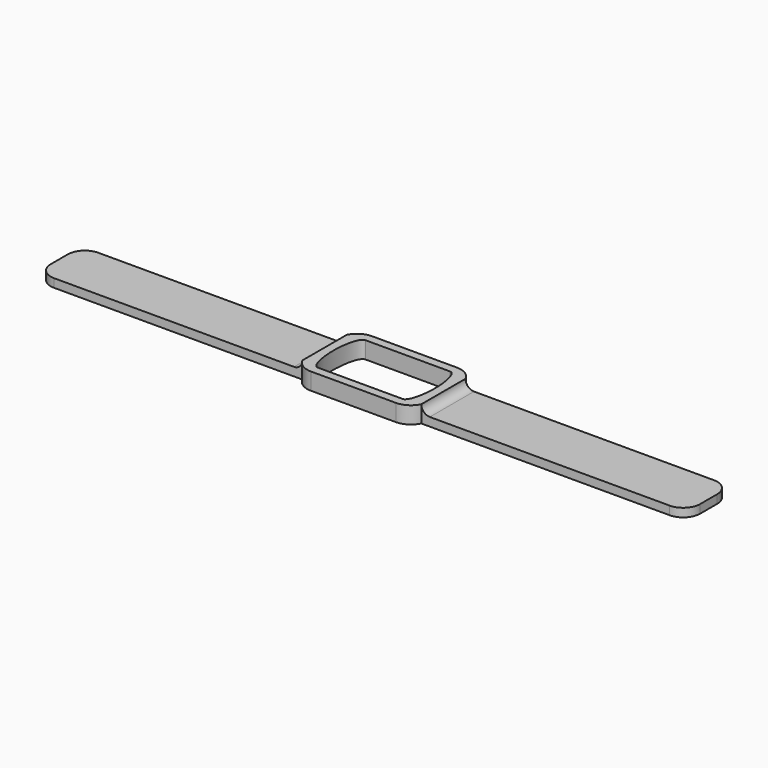
from build123d import *

# Parameters (mm, degrees)
PAD_DEPTH    = 8
SKETCH001_W  = 26
SKETCH001_H  = 4
PAD001_DEPTH = 125
SKETCH002_W  = 26
SKETCH002_H  = 4
PAD002_DEPTH = 125
FILLET_R     = 3.99
FILLET001_R  = 3.99
FILLET002_R  = 8
FILLET003_R  = 8


with BuildPart() as part:
    # Sketch → Pad (new body)
    with BuildSketch(Plane.XY):
        with BuildLine():
            ThreePointArc((-28, 13), (-24.716991, 16.647185), (-20, 18))
            Line((-20, 18), (20, 18))
            ThreePointArc((20, 18), (24.716991, 16.647185), (28, 13))
            Line((28, 13), (28, -13))
            ThreePointArc((28, -13), (24.716991, -16.647185), (20, -18))
            Line((20, -18), (-20, -18))
            ThreePointArc((-20, -18), (-24.716991, -16.647185), (-28, -13))
            Line((-28, -13), (-28, 13))
        make_face()
        with BuildLine():
            add(Edge.make_bspline(
                [(-20, 14), (-24, 14), (-24, 0), (-24, -14), (-20, -14)],
                knots=[3.141593, 3.141593, 3.141593, 4.712389, 4.712389, 6.283185, 6.283185, 6.283185], degree=2, weights=[1, 0.707107, 1, 0.707107, 1]))
            Line((-20, 14), (20, 14))
            add(Edge.make_bspline(
                [(20, -14), (24, -14), (24, 0), (24, 14), (20, 14)],
                knots=[0, 0, 0, 1.570796, 1.570796, 3.141593, 3.141593, 3.141593], degree=2, weights=[1, 0.707107, 1, 0.707107, 1]))
            Line((20, -14), (-20, -14))
        make_face(mode=Mode.SUBTRACT)
    extrude(amount=PAD_DEPTH)

    # Sketch001 → Pad001 (new body)
    with BuildSketch(Plane(origin=(-28, 0, 0), x_dir=(0, -1, 0), z_dir=(-1, 0, 0))):
        with Locations((0, 2)):
            Rectangle(SKETCH001_W, SKETCH001_H)
    extrude(amount=PAD001_DEPTH)

    # Sketch002 → Pad002 (new body)
    with BuildSketch(Plane.YZ.offset(28)):
        with Locations((0, 2)):
            Rectangle(SKETCH002_W, SKETCH002_H)
    extrude(amount=PAD002_DEPTH)

    # Fillet
    fillet_edges = [part.edges().sort_by_distance(p)[0] for p in [
        (-28, 0, 4),
    ]]
    fillet(fillet_edges, radius=FILLET_R)

    # Fillet001
    fillet001_edges = [part.edges().sort_by_distance(p)[0] for p in [
        (28, 0, 4),
    ]]
    fillet(fillet001_edges, radius=FILLET001_R)

    # Fillet002
    fillet002_edges = [part.edges().sort_by_distance(p)[0] for p in [
        (-153, 13, 2),
        (-153, -13, 2),
    ]]
    fillet(fillet002_edges, radius=FILLET002_R)

    # Fillet003
    fillet003_edges = [part.edges().sort_by_distance(p)[0] for p in [
        (153, 13, 2),
        (153, -13, 2),
    ]]
    fillet(fillet003_edges, radius=FILLET003_R)


solid = part.part
